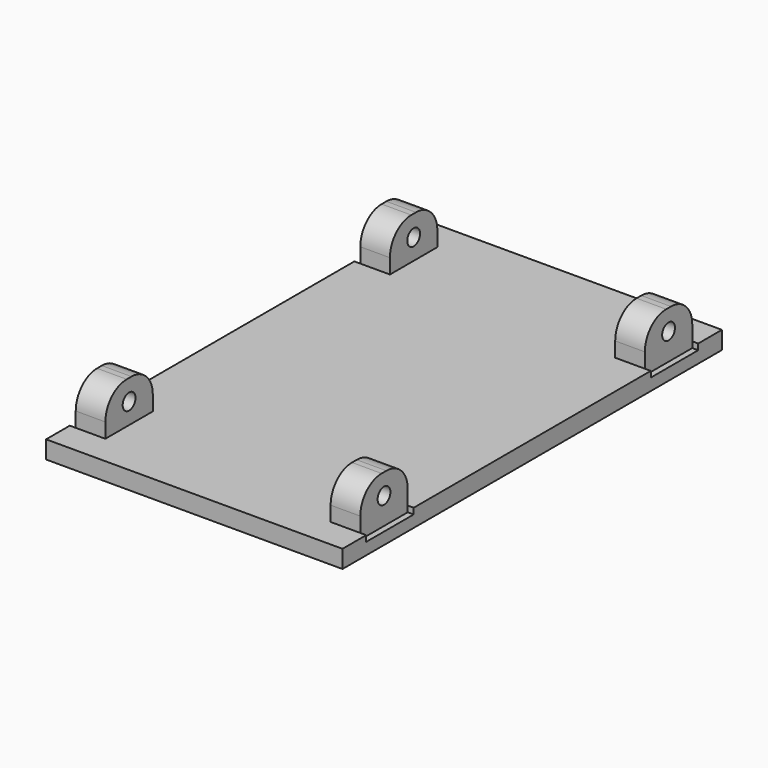
from build123d import *

# Parameters (mm, degrees)
F0_W      = 50
F0_H      = 80
F1_DEPTH  = 3
F2_W      = 6
F2_H      = 10
F3_DEPTH  = 7
F4_R      = 1.35
F5_DEPTH  = 50.001
F6_R      = 4.5
F7_R      = 1.35
F8_DEPTH  = 1
F9_R      = 1.35
F10_DEPTH = 1
F11_W     = 1
F11_H     = 10
F12_DEPTH = 1


with BuildPart() as f1:
    # F0 (on Top) → F1 (new body)
    with BuildSketch(Plane.XY):
        Rectangle(F0_W, F0_H)
    extrude(amount=F1_DEPTH)

    # F2 (on face) → F3 (join)
    with BuildSketch(Plane.XY.offset(3)):
        with Locations((-22, 30)):
            Rectangle(F2_W, F2_H)
        with Locations((22, 30)):
            Rectangle(F2_W, F2_H)
        with Locations((-22, -30)):
            Rectangle(F2_W, F2_H)
        with Locations((22, -30)):
            Rectangle(F2_W, F2_H)
    extrude(amount=F3_DEPTH)

    # F4 (on face) → F5 (cut, through all)
    with BuildSketch(Plane.YZ.offset(25)):
        with Locations((-30, 6.5)):
            Circle(F4_R)
        with Locations((30, 6.5)):
            Circle(F4_R)
    extrude(amount=-F5_DEPTH, mode=Mode.SUBTRACT)

    # F6
    f6_edges = [f1.edges().sort_by_distance(p)[0] for p in [
        (22, -35, 10),
        (22, -25, 10),
        (-22, -35, 10),
        (-22, -25, 10),
        (-22, 25, 10),
        (-22, 35, 10),
        (22, 25, 10),
        (22, 35, 10),
    ]]
    fillet(f6_edges, radius=F6_R)

    # F7 (on face) → F8 (cut)
    with BuildSketch(Plane.YZ.offset(25)):
        with BuildLine():
            Line((-35, 5.5), (-35, 3))
            Line((-35, 3), (-25, 3))
            Line((-25, 3), (-25, 5.5))
            ThreePointArc((-25, 5.5), (-26.3180194847, 8.6819805153), (-29.5, 10))
            Line((-29.5, 10), (-30.5, 10))
            ThreePointArc((-30.5, 10), (-33.6819805153, 8.6819805153), (-35, 5.5))
        make_face()
        with Locations((-30, 6.5)):
            Circle(F7_R, mode=Mode.SUBTRACT)
        with BuildLine():
            Line((25, 5.5), (25, 3))
            Line((25, 3), (35, 3))
            Line((35, 3), (35, 5.5))
            ThreePointArc((35, 5.5), (33.6819805153, 8.6819805153), (30.5, 10))
            Line((30.5, 10), (29.5, 10))
            ThreePointArc((29.5, 10), (26.3180194847, 8.6819805153), (25, 5.5))
        make_face()
        with Locations((30, 6.5)):
            Circle(F7_R, mode=Mode.SUBTRACT)
    extrude(amount=-F8_DEPTH, mode=Mode.SUBTRACT)

    # F9 (on face) → F10 (cut)
    with BuildSketch(Plane(origin=(-25, 0, 0), x_dir=(0, -1, 0), z_dir=(-1, 0, 0))):
        with BuildLine():
            Line((-35, 5.5), (-35, 3))
            Line((-35, 3), (-25, 3))
            Line((-25, 3), (-25, 5.5))
            ThreePointArc((-25, 5.5), (-26.3180194847, 8.6819805153), (-29.5, 10))
            Line((-29.5, 10), (-30.5, 10))
            ThreePointArc((-30.5, 10), (-33.6819805153, 8.6819805153), (-35, 5.5))
        make_face()
        with Locations((-30, 6.5)):
            Circle(F9_R, mode=Mode.SUBTRACT)
        with BuildLine():
            Line((25, 5.5), (25, 3))
            Line((25, 3), (35, 3))
            Line((35, 3), (35, 5.5))
            ThreePointArc((35, 5.5), (33.6819805153, 8.6819805153), (30.5, 10))
            Line((30.5, 10), (29.5, 10))
            ThreePointArc((29.5, 10), (26.3180194847, 8.6819805153), (25, 5.5))
        make_face()
        with Locations((30, 6.5)):
            Circle(F9_R, mode=Mode.SUBTRACT)
    extrude(amount=-F10_DEPTH, mode=Mode.SUBTRACT)

    # F11 (on face) → F12 (cut)
    with BuildSketch(Plane.XY.offset(3)):
        with Locations((-24.5, 30)):
            Rectangle(F11_W, F11_H)
        with Locations((24.5, 30)):
            Rectangle(F11_W, F11_H)
        with Locations((24.5, -30)):
            Rectangle(F11_W, F11_H)
        with Locations((-24.5, -30)):
            Rectangle(F11_W, F11_H)
    extrude(amount=-F12_DEPTH, mode=Mode.SUBTRACT)


solid = f1.part
